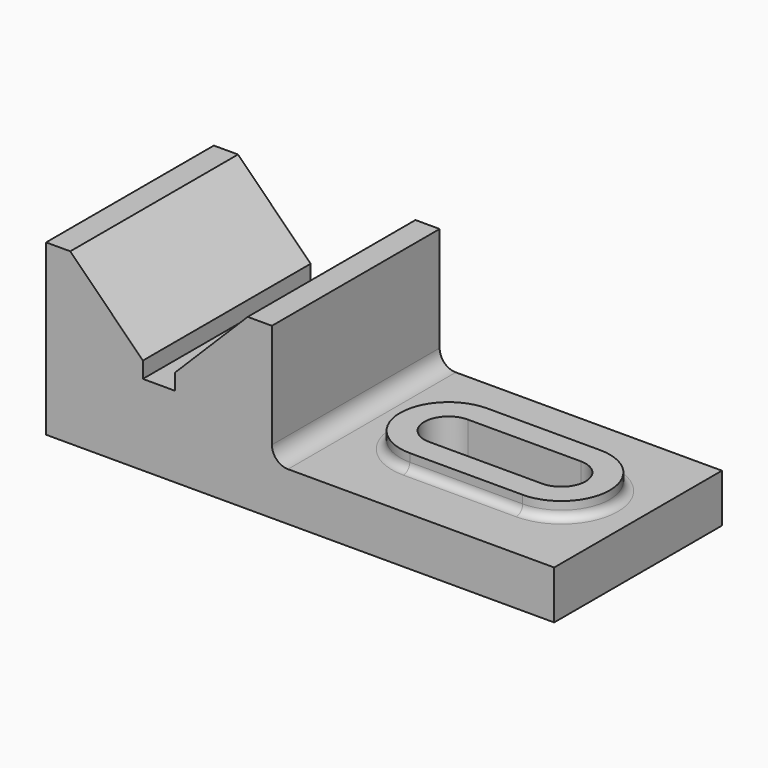
from build123d import *

# Parameters (mm, degrees)
F1_DEPTH = 82.55
F3_DEPTH = 6.35
F4_DEPTH = 25.4
F5_R     = 3.175


with BuildPart() as f1:
    # F0 (on Front) → F1 (new body)
    with BuildSketch(Plane.XZ):
        with BuildLine():
            Line((0, 66.675), (0, 0))
            Line((0, 0), (200.025, 0))
            Line((200.025, 0), (200.025, 19.05))
            Line((200.025, 19.05), (95.25, 19.05))
            ThreePointArc((95.25, 19.05), (90.759872, 20.909872), (88.9, 25.4))
            Line((88.9, 25.4), (88.9, 26.2624))
            Line((88.9, 26.2624), (88.9, 26.67))
            Line((88.9, 26.67), (88.9, 66.675))
            Line((88.9, 66.675), (79.375, 66.675))
            Line((79.375, 66.675), (50.8, 38.1))
            Line((50.8, 38.1), (50.8, 31.75))
            Line((50.8, 31.75), (38.1, 31.75))
            Line((38.1, 31.75), (38.1, 38.1))
            Line((38.1, 38.1), (9.525, 66.675))
            Line((9.525, 66.675), (0, 66.675))
        make_face()
    extrude(amount=F1_DEPTH)

    # F2 (on face) → F3 (join)
    with BuildSketch(Plane.XY.offset(19.05)):
        with BuildLine():
            Line((169.8625, -22.225), (125.4125, -22.225))
            ThreePointArc((125.4125, -22.225), (106.3625, -41.275), (125.4125, -60.325))
            Line((125.4125, -60.325), (169.8625, -60.325))
            ThreePointArc((169.8625, -60.325), (188.9125, -41.275), (169.8625, -22.225))
        make_face()
        with BuildLine():
            ThreePointArc((125.4125, -50.8), (115.8875, -41.275), (125.4125, -31.75))
            Line((125.4125, -31.75), (169.8625, -31.75))
            ThreePointArc((169.8625, -31.75), (179.3875, -41.275), (169.8625, -50.8))
            Line((169.8625, -50.8), (125.4125, -50.8))
        make_face(mode=Mode.SUBTRACT)
    extrude(amount=F3_DEPTH)

    # F2 (on face) → F4 (cut)
    with BuildSketch(Plane.XY.offset(19.05)):
        with BuildLine():
            Line((169.8625, -31.75), (125.4125, -31.75))
            ThreePointArc((125.4125, -31.75), (115.8875, -41.275), (125.4125, -50.8))
            Line((125.4125, -50.8), (169.8625, -50.8))
            ThreePointArc((169.8625, -50.8), (179.3875, -41.275), (169.8625, -31.75))
        make_face()
    extrude(amount=-F4_DEPTH, mode=Mode.SUBTRACT)

    # F5
    f5_edges = [f1.edges().sort_by_distance(p)[0] for p in [
        (188.9125, -41.275, 19.05),
    ]]
    fillet(f5_edges, radius=F5_R)


solid = f1.part
